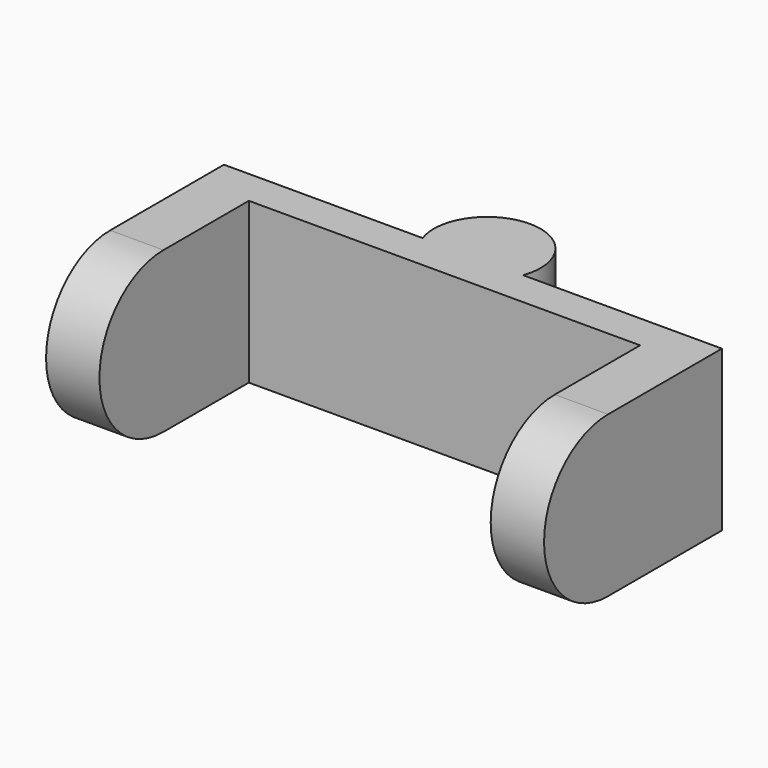
from build123d import *

# Parameters (mm, degrees)
F0_W      = 71.12
F0_H      = 22.86
F1_DEPTH  = 5.08
F2_W      = 7.62
F2_H      = 22.86
F3_DEPTH  = 15.24
F4_R      = 11.43
F5_DEPTH  = 7.62
F6_R      = 11.43
F7_DEPTH  = 7.62
F8_R      = 7.62
F9_DEPTH  = 4.7371
F10_R     = 7.62
F11_DEPTH = 4.7371


with BuildPart() as f1:
    # F0 (on Front) → F1 (new body)
    with BuildSketch(Plane.XZ):
        Rectangle(F0_W, F0_H)
    extrude(amount=F1_DEPTH)

    # F2 (on face) → F3 (join)
    with BuildSketch(Plane.XZ.offset(5.08)):
        with Locations((-31.75, 0)):
            Rectangle(F2_W, F2_H)
        with Locations((31.75, 0)):
            Rectangle(F2_W, F2_H)
    extrude(amount=F3_DEPTH)

    # F4 (on face) → F5 (join)
    with BuildSketch(Plane.YZ.offset(35.56)):
        with Locations((-20.32, 0)):
            Circle(F4_R)
    extrude(amount=-F5_DEPTH)

    # F6 (on face) → F7 (join)
    with BuildSketch(Plane(origin=(-35.56, 0, 0), x_dir=(0, -1, 0), z_dir=(-1, 0, 0))):
        with Locations((20.32, 0)):
            Circle(F6_R)
    extrude(amount=-F7_DEPTH)

    # F8 (on face) → F9 (join)
    with BuildSketch(Plane.XY.offset(11.43)):
        with Locations((0, 2.54)):
            Circle(F8_R)
    extrude(amount=-F9_DEPTH)

    # F10 (on face) → F11 (join)
    with BuildSketch(Plane(origin=(0, 0, -11.43), x_dir=(1, 0, 0), z_dir=(0, 0, -1))):
        with Locations((0, -2.54)):
            Circle(F10_R)
    extrude(amount=-F11_DEPTH)


solid = f1.part
